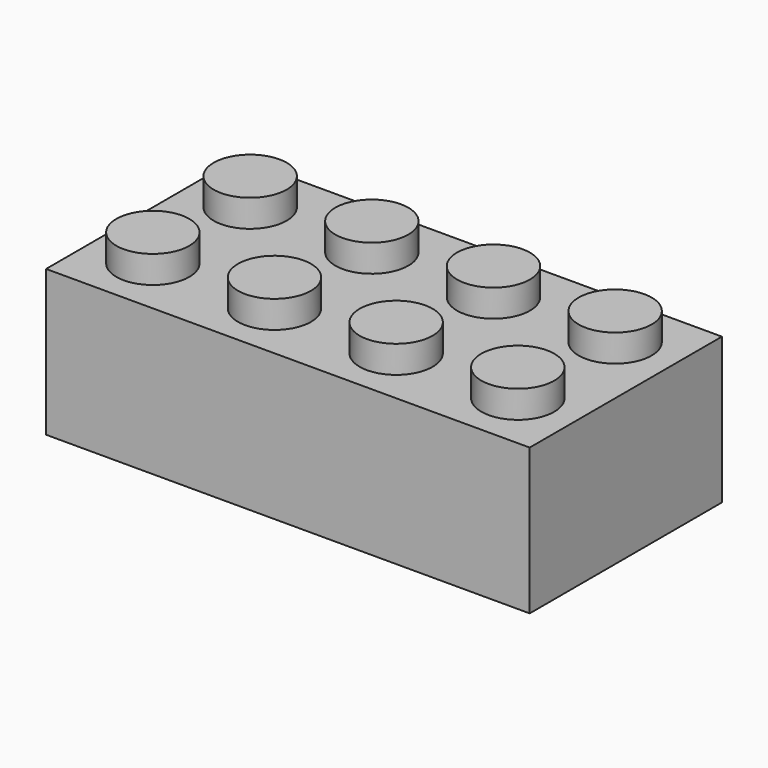
from build123d import *

# Parameters (mm, degrees)
SKETCH_W        = 31.8
SKETCH_H        = 15.8
PAD_DEPTH       = 9.6
SKETCH001_W     = 29.4
SKETCH001_H     = 13.4
POCKET_DEPTH    = 3.9
SKETCH002_R     = 2.4
PAD001_DEPTH    = 1.8
SKETCH003_R     = 2.4
PAD002_DEPTH    = 1.8
SKETCH004_R     = 2.4
PAD003_DEPTH    = 1.8
SKETCH005_R     = 2.4
PAD004_DEPTH    = 1.8
SKETCH006_R     = 3.25
PAD005_DEPTH    = 3.9
SKETCH007_R     = 2.4
POCKET001_DEPTH = 7.8
SKETCH008_R     = 3.25
PAD006_DEPTH    = 3.9
SKETCH009_R     = 2.4
POCKET002_DEPTH = 7.8


with BuildPart() as part:
    # Sketch → Pad (new body)
    with BuildSketch(Plane.XY):
        Rectangle(SKETCH_W, SKETCH_H)
    extrude(amount=PAD_DEPTH)

    # Sketch001 → Pocket (cut, symmetric)
    with BuildSketch(Plane.XY):
        Rectangle(SKETCH001_W, SKETCH001_H)
    extrude(amount=POCKET_DEPTH, both=True, mode=Mode.SUBTRACT)

    # Sketch002 (on Face5 of Pocket) → Pad001 (join)
    with BuildSketch(Plane.XY.offset(9.6)):
        with Locations((-12, 4)):
            Circle(SKETCH002_R)
    pad001 = extrude(amount=PAD001_DEPTH)

    # Sketch003 (on Face5 of Pad001) → Pad002 (join)
    with BuildSketch(Plane.XY.offset(9.6)):
        with Locations((-4, 4)):
            Circle(SKETCH003_R)
    pad002 = extrude(amount=PAD002_DEPTH)

    # Sketch004 (on Face5 of Pad002) → Pad003 (join)
    with BuildSketch(Plane.XY.offset(9.6)):
        with Locations((-12, -4)):
            Circle(SKETCH004_R)
    pad003 = extrude(amount=PAD003_DEPTH)

    # Sketch005 (on Face5 of Pad003) → Pad004 (join)
    with BuildSketch(Plane.XY.offset(9.6)):
        with Locations((-4, -4)):
            Circle(SKETCH005_R)
    pad004 = extrude(amount=PAD004_DEPTH)

    # Mirrored: Pad001, Pad002, Pad003, Pad004 across Sketch002 V_Axis
    add(pad001.mirror(Plane(origin=(0, 0, 9.6), x_dir=(0, 0, 1), z_dir=(1, 0, 0))))
    add(pad002.mirror(Plane(origin=(0, 0, 9.6), x_dir=(0, 0, 1), z_dir=(1, 0, 0))))
    add(pad003.mirror(Plane(origin=(0, 0, 9.6), x_dir=(0, 0, 1), z_dir=(1, 0, 0))))
    add(pad004.mirror(Plane(origin=(0, 0, 9.6), x_dir=(0, 0, 1), z_dir=(1, 0, 0))))

    # Sketch006 (on Face19 of Mirrored) → Pad005 (join, symmetric)
    with BuildSketch(Plane(origin=(0, 0, 3.9), x_dir=(1, 0, 0), z_dir=(0, 0, -1))):
        Circle(SKETCH006_R)
    extrude(amount=PAD005_DEPTH, both=True)

    # Sketch007 (on Face29 of Pad005) → Pocket001 (cut)
    with BuildSketch(Plane(origin=(0, 0, 0), x_dir=(1, 0, 0), z_dir=(0, 0, -1))):
        Circle(SKETCH007_R)
    extrude(amount=-POCKET001_DEPTH, mode=Mode.SUBTRACT)

    # Sketch008 (on Face19 of Pocket001) → Pad006 (join, symmetric)
    with BuildSketch(Plane(origin=(0, 0, 3.9), x_dir=(1, 0, 0), z_dir=(0, 0, -1))):
        with Locations((-8, 0)):
            Circle(SKETCH008_R)
    pad006 = extrude(amount=PAD006_DEPTH, both=True)

    # Sketch009 (on Face30 of Pad006) → Pocket002 (cut)
    with BuildSketch(Plane(origin=(0, 0, 0), x_dir=(1, 0, 0), z_dir=(0, 0, -1))):
        with Locations((-8, 0)):
            Circle(SKETCH009_R)
    pocket002 = extrude(amount=-POCKET002_DEPTH, mode=Mode.SUBTRACT)

    # Mirrored001: Pad006 across Sketch008 V_Axis
    add(pad006.mirror(Plane(origin=(0, 0, 3.9), x_dir=(0, 0, -1), z_dir=(1, 0, 0))))

    # Mirrored002: Pocket002 across Sketch009 V_Axis
    add(pocket002.mirror(Plane(origin=(0, 0, 0), x_dir=(0, 0, -1), z_dir=(1, 0, 0))), mode=Mode.SUBTRACT)


solid = part.part
